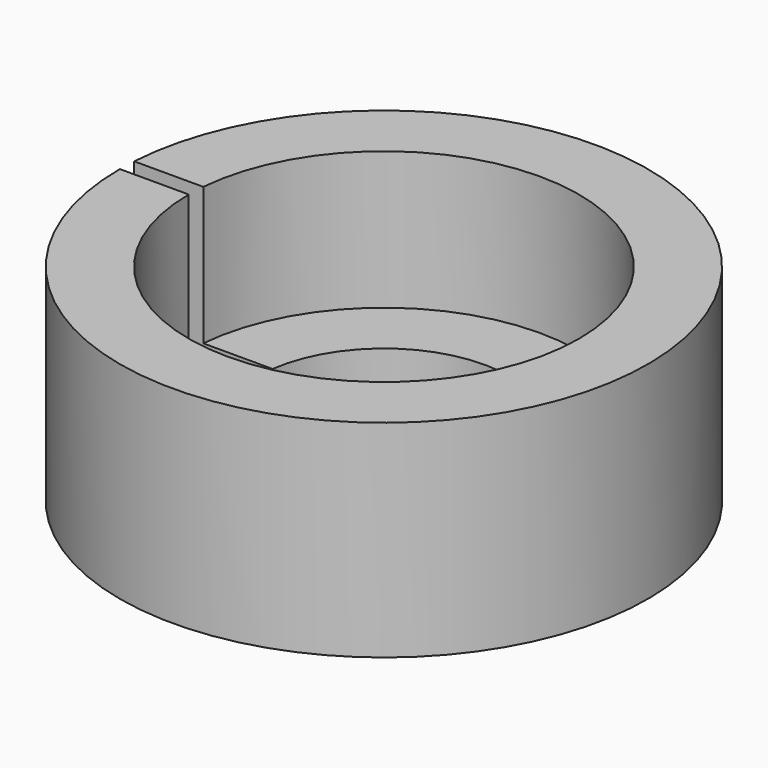
from build123d import *

# Parameters (mm, degrees)
F1_DEPTH = 3
F2_DEPTH = 9
F3_DEPTH = 9.001


with BuildPart() as f1:
    # F0 (on Top) → F1 (new body)
    with BuildSketch(Plane.XY):
        with BuildLine():
            Line((-5.4486236794, 0.75), (-8.4668471109, 0.75))
            ThreePointArc((-8.4668471109, 0.75), (-8.4917077329, 0.3753661926), (-8.5, 0))
            Line((-8.5, 0), (-5.5, 0))
            ThreePointArc((-5.5, 0), (-5.4871408874, 0.3758788124), (-5.4486236794, 0.75))
        make_face()
        with BuildLine():
            ThreePointArc((-8.5, 0), (0, -8.5), (8.5, 0))
            ThreePointArc((8.5, 0), (0.3753661926, 8.4917077329), (-8.4668471109, 0.75))
            Line((-8.4668471109, 0.75), (-5.4486236794, 0.75))
            ThreePointArc((-5.4486236794, 0.75), (0.3758788124, 5.4871408874), (5.5, 0))
            ThreePointArc((5.5, 0), (0, -5.5), (-5.5, 0))
            Line((-5.5, 0), (-8.5, 0))
        make_face()
        with BuildLine():
            ThreePointArc((-8.5, 0), (-8.4917077329, 0.3753661926), (-8.4668471109, 0.75))
            Line((-8.4668471109, 0.75), (-11.4755174175, 0.75))
            ThreePointArc((-11.4755174175, 0.75), (-11.4938777247, 0.3751997458), (-11.5, 0))
            Line((-11.5, 0), (-8.5, 0))
        make_face()
        with BuildLine():
            ThreePointArc((-8.4668471109, 0.75), (0.3753661926, 8.4917077329), (8.5, 0))
            ThreePointArc((8.5, 0), (0, -8.5), (-8.5, 0))
            Line((-8.5, 0), (-11.5, 0))
            ThreePointArc((-11.5, 0), (0, -11.5), (11.5, 0))
            ThreePointArc((11.5, 0), (0.3751997458, 11.4938777247), (-11.4755174175, 0.75))
            Line((-11.4755174175, 0.75), (-8.4668471109, 0.75))
        make_face()
    extrude(amount=F1_DEPTH)

    # F0 (on Top) → F2 (join)
    with BuildSketch(Plane.XY):
        with BuildLine():
            ThreePointArc((-8.5, 0), (-8.4917077329, 0.3753661926), (-8.4668471109, 0.75))
            Line((-8.4668471109, 0.75), (-11.4755174175, 0.75))
            ThreePointArc((-11.4755174175, 0.75), (-11.4938777247, 0.3751997458), (-11.5, 0))
            Line((-11.5, 0), (-8.5, 0))
        make_face()
        with BuildLine():
            ThreePointArc((-8.4668471109, 0.75), (0.3753661926, 8.4917077329), (8.5, 0))
            ThreePointArc((8.5, 0), (0, -8.5), (-8.5, 0))
            Line((-8.5, 0), (-11.5, 0))
            ThreePointArc((-11.5, 0), (0, -11.5), (11.5, 0))
            ThreePointArc((11.5, 0), (0.3751997458, 11.4938777247), (-11.4755174175, 0.75))
            Line((-11.4755174175, 0.75), (-8.4668471109, 0.75))
        make_face()
    extrude(amount=F2_DEPTH)

    # F0 (on Top) → F3 (cut, through all)
    with BuildSketch(Plane.XY):
        with BuildLine():
            Line((-5.4486236794, 0.75), (-8.4668471109, 0.75))
            ThreePointArc((-8.4668471109, 0.75), (-8.4917077329, 0.3753661926), (-8.5, 0))
            Line((-8.5, 0), (-5.5, 0))
            ThreePointArc((-5.5, 0), (-5.4871408874, 0.3758788124), (-5.4486236794, 0.75))
        make_face()
        with BuildLine():
            ThreePointArc((-8.5, 0), (-8.4917077329, 0.3753661926), (-8.4668471109, 0.75))
            Line((-8.4668471109, 0.75), (-11.4755174175, 0.75))
            ThreePointArc((-11.4755174175, 0.75), (-11.4938777247, 0.3751997458), (-11.5, 0))
            Line((-11.5, 0), (-8.5, 0))
        make_face()
    extrude(amount=F3_DEPTH, mode=Mode.SUBTRACT)


solid = f1.part
